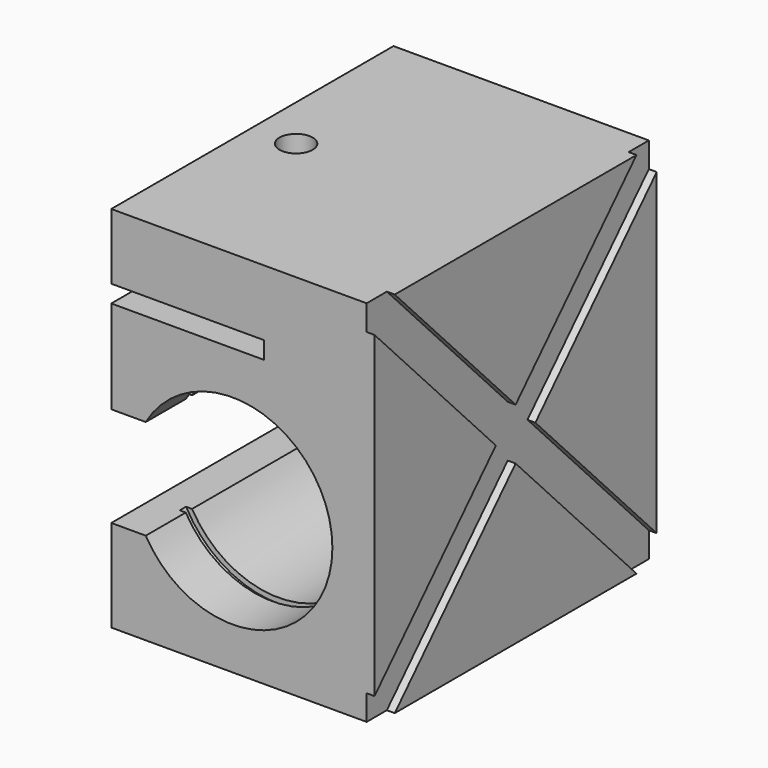
from build123d import *

# Parameters (mm, degrees)
F0_W      = 50
F0_H      = 70
F1_DEPTH  = 67
F3_DEPTH  = 1.5
F4_W      = 29
F4_H      = 3.3
F5_DEPTH  = 67.001
F7_R      = 20
F8_DEPTH  = 1.5
F10_R     = 20
F11_DEPTH = 1.5
F12_R     = 3.15
F13_DEPTH = 12.5


with BuildPart() as f1:
    # F0 (on Front) → F1 (new body)
    with BuildSketch(Plane.XZ):
        with Locations((-25, 35)):
            Rectangle(F0_W, F0_H)
    extrude(amount=F1_DEPTH)

    # F2 (on face) → F3 (cut)
    with BuildSketch(Plane.YZ):
        Polygon((-67, 70), (-67, 65.2), (-38.1895705521, 35), (-33.5, 39.915755627), (-62.2, 70), align=None)
        Polygon((-33.5, 39.915755627), (-38.1895705521, 35), (-33.5, 30.084244373), (-28.8104294479, 35), align=None)
        Polygon((-67, 4.8), (-67, 0), (-62.2, 0), (-33.5, 30.084244373), (-38.1895705521, 35), align=None)
        Polygon((-4.8, 70), (-33.5, 39.915755627), (-28.8104294479, 35), (0, 65.2), (0, 70), align=None)
        Polygon((-33.5, 30.084244373), (-4.8, 0), (0, 0), (0, 4.8), (-28.8104294479, 35), align=None)
    extrude(amount=-F3_DEPTH, mode=Mode.SUBTRACT)

    # F4 (on face) → F5 (cut, through all)
    with BuildSketch(Plane(origin=(0, 0, 0), x_dir=(-1, 0, 0), z_dir=(0, 1, 0))):
        with Locations((35.5, 55.85)):
            Rectangle(F4_W, F4_H)
        with BuildLine():
            ThreePointArc((46, 27), (45.3525906995, 31.9175618569), (43.4544826719, 36.5))
            ThreePointArc((43.4544826719, 36.5), (8, 27), (43.4544826719, 17.5))
            ThreePointArc((43.4544826719, 17.5), (45.3525906995, 22.0824381431), (46, 27))
        make_face()
        with BuildLine():
            Line((50, 17.5), (50, 36.5))
            Line((50, 36.5), (43.4544826719, 36.5))
            ThreePointArc((43.4544826719, 36.5), (45.3525906995, 31.9175618569), (46, 27))
            ThreePointArc((46, 27), (45.3525906995, 22.0824381431), (43.4544826719, 17.5))
            Line((43.4544826719, 17.5), (50, 17.5))
        make_face()
    extrude(amount=-F5_DEPTH, mode=Mode.SUBTRACT)

    # F7 (on offset) → F8 (cut)
    with BuildSketch(Plane(origin=(0, -12.5, 0), x_dir=(-1, 0, 0), z_dir=(0, 1, 0))):
        with Locations((27, 27)):
            Circle(F7_R)
    extrude(amount=-F8_DEPTH, mode=Mode.SUBTRACT)

    # F10 (on offset) → F11 (cut)
    with BuildSketch(Plane(origin=(0, -56, 0), x_dir=(-1, 0, 0), z_dir=(0, 1, 0))):
        with Locations((27, 27)):
            Circle(F10_R)
    extrude(amount=-F11_DEPTH, mode=Mode.SUBTRACT)

    # F12 (on face) → F13 (cut, through all)
    with BuildSketch(Plane.XY.offset(70)):
        with Locations((-41.7, -33.5)):
            Circle(F12_R)
    extrude(amount=-F13_DEPTH, mode=Mode.SUBTRACT)


solid = f1.part
